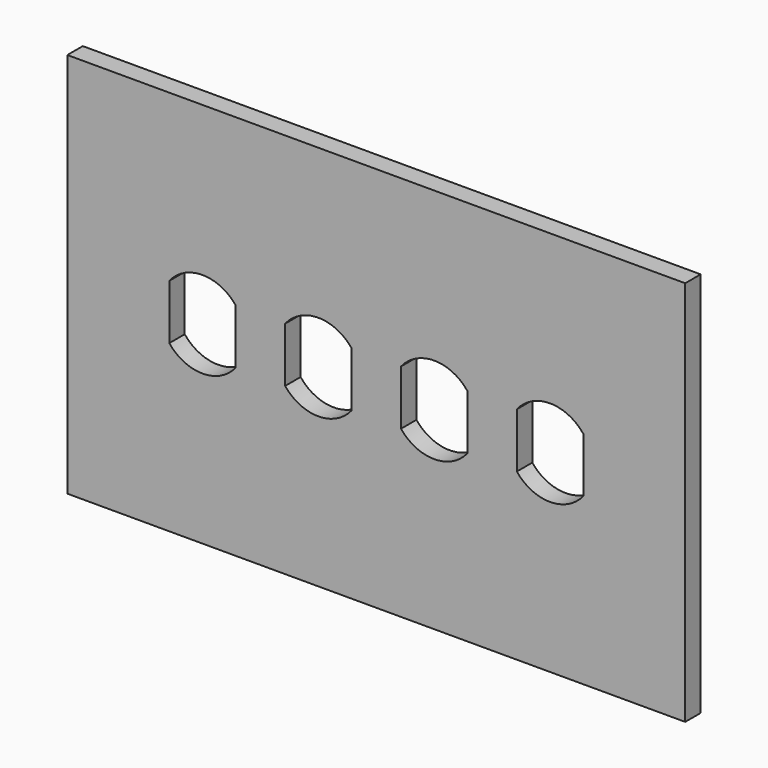
from build123d import *

# Parameters (mm, degrees)
F0_W     = 203.2
F0_H     = 127
F1_DEPTH = 6.35
F3_DEPTH = 6.35


with BuildPart() as f1:
    # F0 (on Front) → F1 (new body)
    with BuildSketch(Plane.XZ):
        Rectangle(F0_W, F0_H)
    extrude(amount=F1_DEPTH)

    # F2 (on face) → F3 (cut, through all)
    with BuildSketch(Plane.XZ.offset(6.35)):
        with BuildLine():
            Line((-68.072, 9.017), (-68.072, 0))
            Line((-68.072, 0), (-68.072, -9.017))
            ThreePointArc((-68.072, -9.017), (-57.15, -14.276614), (-46.228, -9.017))
            Line((-46.228, -9.017), (-46.228, 0))
            Line((-46.228, 0), (-46.228, 9.017))
            ThreePointArc((-46.228, 9.017), (-57.15, 14.276614), (-68.072, 9.017))
        make_face()
        with BuildLine():
            Line((-29.972, 9.017), (-29.972, 0))
            Line((-29.972, 0), (-29.972, -9.017))
            ThreePointArc((-29.972, -9.017), (-19.05, -14.276614), (-8.128, -9.017))
            Line((-8.128, -9.017), (-8.128, 0))
            Line((-8.128, 0), (-8.128, 9.017))
            ThreePointArc((-8.128, 9.017), (-19.05, 14.276614), (-29.972, 9.017))
        make_face()
        with BuildLine():
            Line((8.128, 9.017), (8.128, 0))
            Line((8.128, 0), (8.128, -9.017))
            ThreePointArc((8.128, -9.017), (19.05, -14.276614), (29.972, -9.017))
            Line((29.972, -9.017), (29.972, 0))
            Line((29.972, 0), (29.972, 9.017))
            ThreePointArc((29.972, 9.017), (19.05, 14.276614), (8.128, 9.017))
        make_face()
        with BuildLine():
            Line((46.228, 9.017), (46.228, 0))
            Line((46.228, 0), (46.228, -9.017))
            ThreePointArc((46.228, -9.017), (57.15, -14.276614), (68.072, -9.017))
            Line((68.072, -9.017), (68.072, 0))
            Line((68.072, 0), (68.072, 9.017))
            ThreePointArc((68.072, 9.017), (57.15, 14.276614), (46.228, 9.017))
        make_face()
    extrude(amount=-F3_DEPTH, mode=Mode.SUBTRACT)


solid = f1.part
